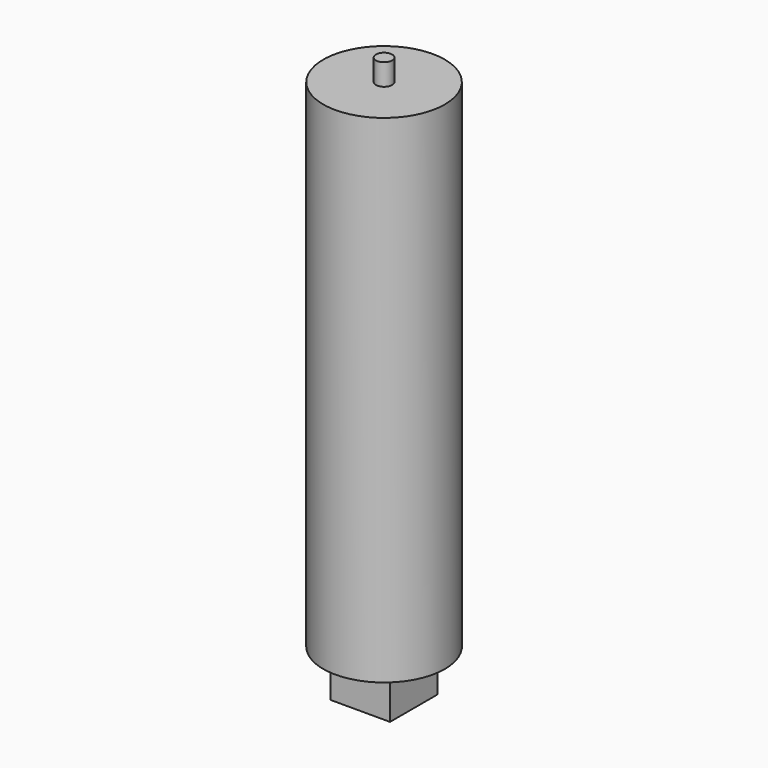
from build123d import *

# Parameters (mm, degrees)
F0_R     = 45
F0_W     = 44
F0_H     = 44
F0_R_2   = 6
F1_DEPTH = 368
F2_DEPTH = 33
F3_DEPTH = 384
F4_W     = 12
F4_H     = 12
F5_DEPTH = 12
F6_R     = 4
F7_DEPTH = 7


with BuildPart() as f1:
    # F0 (on Top) → F1 (new body)
    with BuildSketch(Plane.XY):
        Circle(F0_R)
        Rectangle(F0_W, F0_H, mode=Mode.SUBTRACT)
        Rectangle(F0_W, F0_H)
        Circle(F0_R_2, mode=Mode.SUBTRACT)
        Circle(F0_R_2)
    extrude(amount=F1_DEPTH)

    # F0 (on Top) → F2 (join)
    with BuildSketch(Plane.XY):
        Rectangle(F0_W, F0_H)
        Circle(F0_R_2, mode=Mode.SUBTRACT)
        Circle(F0_R_2)
    extrude(amount=-F2_DEPTH)

    # F4 (on face) → F5 (cut)
    with BuildSketch(Plane(origin=(-22, 0, 0), x_dir=(0, -1, 0), z_dir=(-1, 0, 0))):
        with Locations((14, -8)):
            Rectangle(F4_W, F4_H)
        with Locations((0, -8)):
            Rectangle(F4_W, F4_H)
        with Locations((-14, -8)):
            Rectangle(F4_W, F4_H)
    extrude(amount=-F5_DEPTH, mode=Mode.SUBTRACT)

    # F6 (on face) → F7 (cut)
    with BuildSketch(Plane(origin=(0, 0, -33), x_dir=(1, 0, 0), z_dir=(0, 0, -1))):
        with Locations((-16, 14)):
            Circle(F6_R)
        with Locations((-16, 0)):
            Circle(F6_R)
        with Locations((-16, -14)):
            Circle(F6_R)
    extrude(amount=-F7_DEPTH, mode=Mode.SUBTRACT)


with BuildPart() as f3:
    # F0 (on Top) → F3 (new body)
    with BuildSketch(Plane.XY):
        Circle(F0_R_2)
    extrude(amount=F3_DEPTH)


solid = Compound([f1.part, f3.part])
